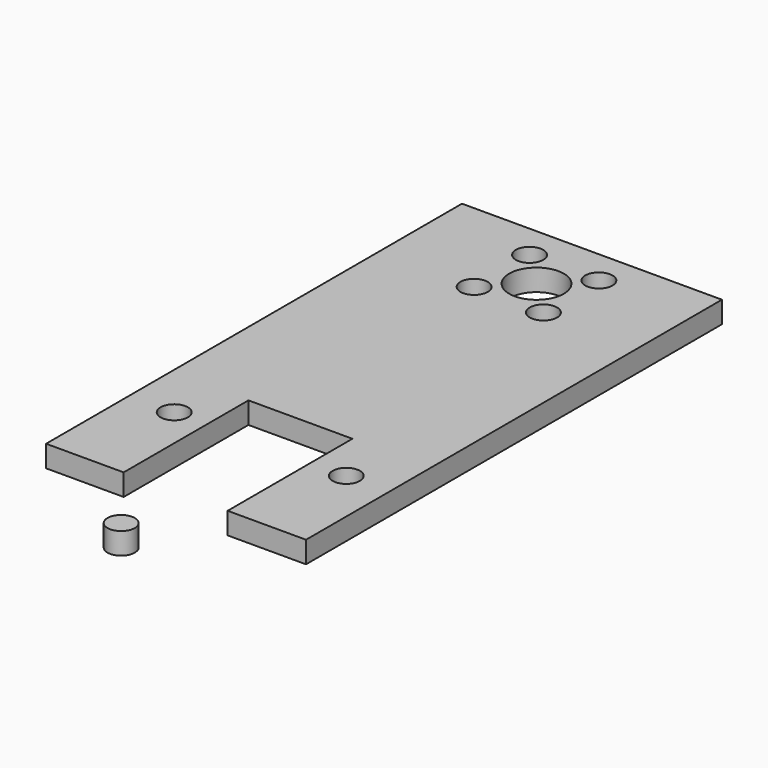
from build123d import *

# Parameters (mm, degrees)
F0_R     = 2
F0_R_2   = 4.0005
F2_DEPTH = 3.175


with BuildPart() as f2:
    # F0 (on Top) → F2 (new body)
    with BuildSketch(Plane.XY):
        with Locations((-0.059144, -9.937426)):
            Circle(F0_R)
        Polygon((-19.05, 76.243628), (-19.05, 0.043628), (-7.679144, 0.043628), (-7.679144, 22.903628), (7.560856, 22.903628), (7.560856, 0.043628), (19.05, 0.043628), (19.05, 76.243628), align=None)
        with Locations((-12.46229, 15.283628)):
            Circle(F0_R, mode=Mode.SUBTRACT)
        with Locations((12.758011, 15.283628)):
            Circle(F0_R, mode=Mode.SUBTRACT)
        with Locations((-5.08, 61.003628)):
            Circle(F0_R, mode=Mode.SUBTRACT)
        with Locations((-5.08, 71.163628)):
            Circle(F0_R, mode=Mode.SUBTRACT)
        with Locations((5.08, 61.003628)):
            Circle(F0_R, mode=Mode.SUBTRACT)
        with Locations((0, 66.083628)):
            Circle(F0_R_2, mode=Mode.SUBTRACT)
        with Locations((5.08, 71.163628)):
            Circle(F0_R, mode=Mode.SUBTRACT)
    extrude(amount=F2_DEPTH)


solid = f2.part
